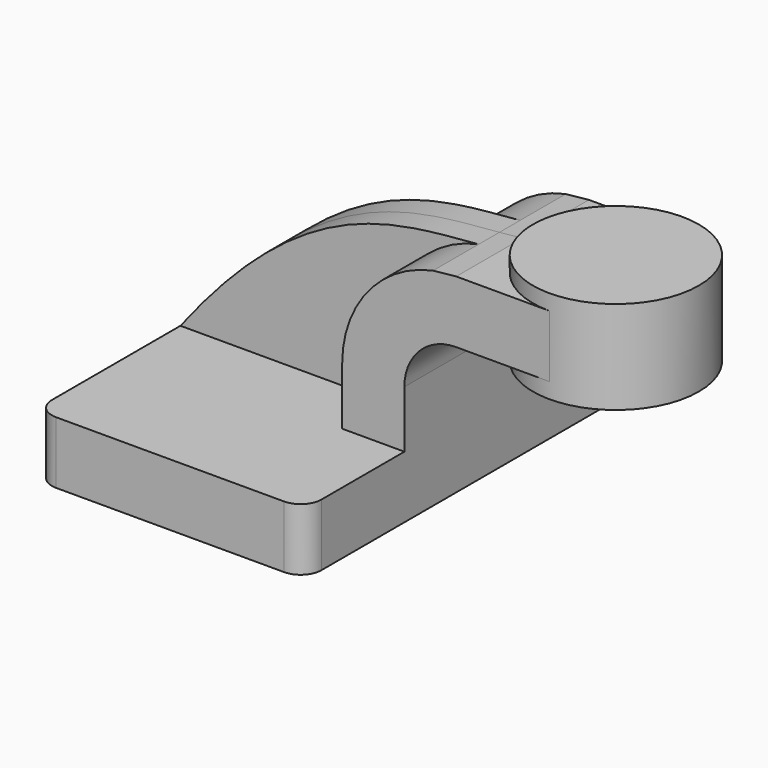
from build123d import *

# Parameters (mm, degrees)
F1_DEPTH = 63.5
F0_W     = 25.4
F0_H     = 19.05
F2_DEPTH = 25.4
F3_DEPTH = 7.9375
F5_R     = 6.35


with BuildPart() as f1:
    # F0 (on Front) → F1 (new body, symmetric)
    with BuildSketch(Plane.XZ):
        Polygon((-41.275, 9.525), (-41.275, -9.525), (41.275, -9.525), (41.275, 9.525), (22.225, 9.525), align=None)
    extrude(amount=F1_DEPTH, both=True)

    # F0 (on Front) → F2 (join, symmetric)
    with BuildSketch(Plane.XZ):
        with Locations((73.025, 52.4002)):
            Rectangle(F0_W, F0_H)
        with BuildLine():
            Line((22.225, 9.525), (41.275, 9.525))
            Line((41.275, 9.525), (41.275, 27.0002))
            ThreePointArc((41.275, 27.0002), (45.9246798487, 38.2255201513), (57.15, 42.8752))
            Line((57.15, 42.8752), (60.325, 42.8752))
            Line((60.325, 42.8752), (60.325, 61.9252))
            Line((60.325, 61.9252), (57.15, 61.9252))
            add(Edge.make_bspline(
                [(50.0629839097, 61.1985892594), (52.429320398, 61.4109419799), (54.7892533864, 61.6407933567), (57.15, 61.9252)],
                knots=[102.3117543263, 102.3117543263, 102.3117543263, 102.3117543263, 111.5045361635, 111.5045361635, 111.5045361635, 111.5045361635], degree=3))
            ThreePointArc((50.0629839097, 61.1985892594), (30.0643057874, 49.0483471789), (22.225, 27.0002))
            Line((22.225, 27.0002), (22.225, 9.525))
        make_face()
    extrude(amount=F2_DEPTH, both=True)

    # F0 (on Front) → F3 (join, symmetric)
    with BuildSketch(Plane.XZ):
        with BuildLine():
            add(Edge.make_bspline(
                [(-41.275, 9.525), (-3.4028397712, 58.6393119619), (23.7266646389, 58.8351937438), (50.0629839097, 61.1985892594)],
                knots=[0, 0, 0, 0, 102.3117543263, 102.3117543263, 102.3117543263, 102.3117543263], degree=3))
            Line((-41.275, 9.525), (22.225, 9.525))
            Line((22.225, 9.525), (22.225, 27.0002))
            ThreePointArc((22.225, 27.0002), (30.0643057874, 49.0483471789), (50.0629839097, 61.1985892594))
        make_face()
    extrude(amount=F3_DEPTH, both=True)

    # F0 (on Front) → F4 (revolve)
    with BuildSketch(Plane.XZ):
        Polygon((85.725, 66.675), (85.725, 61.9252), (85.725, 42.8752), (85.725, 38.1), (111.125, 38.1), (111.125, 66.675), align=None)
    revolve(axis=Axis((85.725, 0, 52.3875), (0, 0, 1)))

    # F5
    f5_edges = [f1.edges().sort_by_distance(p)[0] for p in [
        (-41.275, -63.5, 0),
        (41.275, -63.5, 0),
        (41.275, 63.5, 0),
        (-41.275, 63.5, 0),
    ]]
    fillet(f5_edges, radius=F5_R)


solid = f1.part
